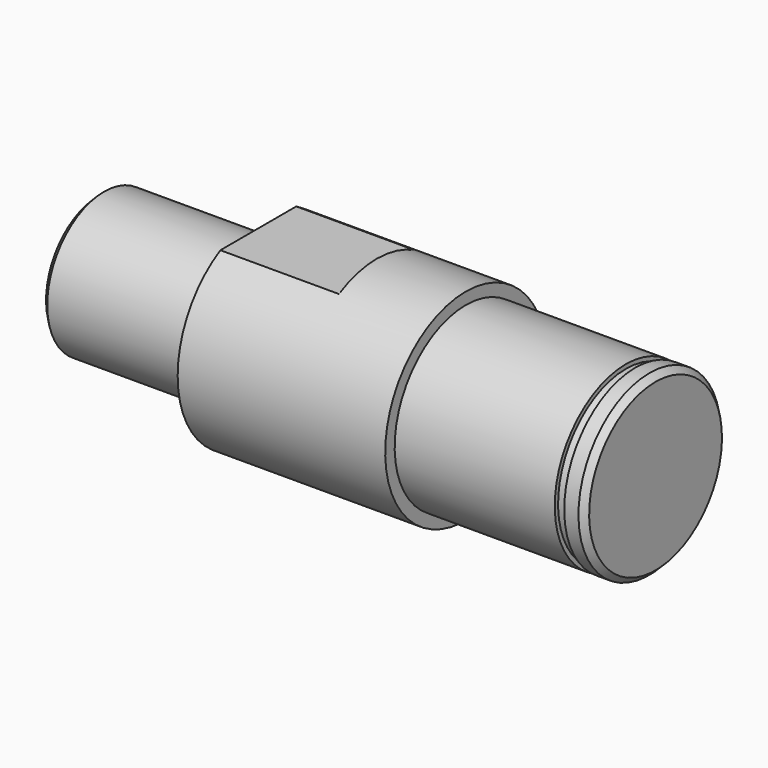
from build123d import *

# Parameters (mm, degrees)
F2_SIZE  = 1
F3_SIZE  = 1
F5_DEPTH = 12.5


with BuildPart() as f1:
    # F0 (on Front) → F1 (revolve)
    with BuildSketch(Plane.XZ):
        Polygon((0, 12), (0, 0), (94, 0), (94, 15), (90.6, 15), (90.6, 14.3), (89, 14.3), (89, 15), (62, 15), (62, 17), (27, 17), (27, 12), align=None)
    revolve(axis=Axis((47, 0, 0), (1, 0, 0)))

    # F2
    f2_edges = [f1.edges().sort_by_distance(p)[0] for p in [
        (94, 0, -15),
    ]]
    chamfer(f2_edges, length=F2_SIZE)

    # F3
    f3_edges = [f1.edges().sort_by_distance(p)[0] for p in [
        (0, 0, -12),
    ]]
    chamfer(f3_edges, length=F3_SIZE)

    # F4 (on Front) → F5 (cut, symmetric)
    with BuildSketch(Plane.XZ):
        Polygon((25.7335081697, 20.8393707871), (25.413043797, 15), (27, 15), (47, 15), (47, 20.8393707871), align=None)
        Polygon((47, -15), (27, -15), (25.413043797, -15), (25.7335081697, -20.8393707871), (47, -20.8393707871), (47, -17), align=None)
    extrude(amount=F5_DEPTH, both=True, mode=Mode.SUBTRACT)


solid = f1.part
